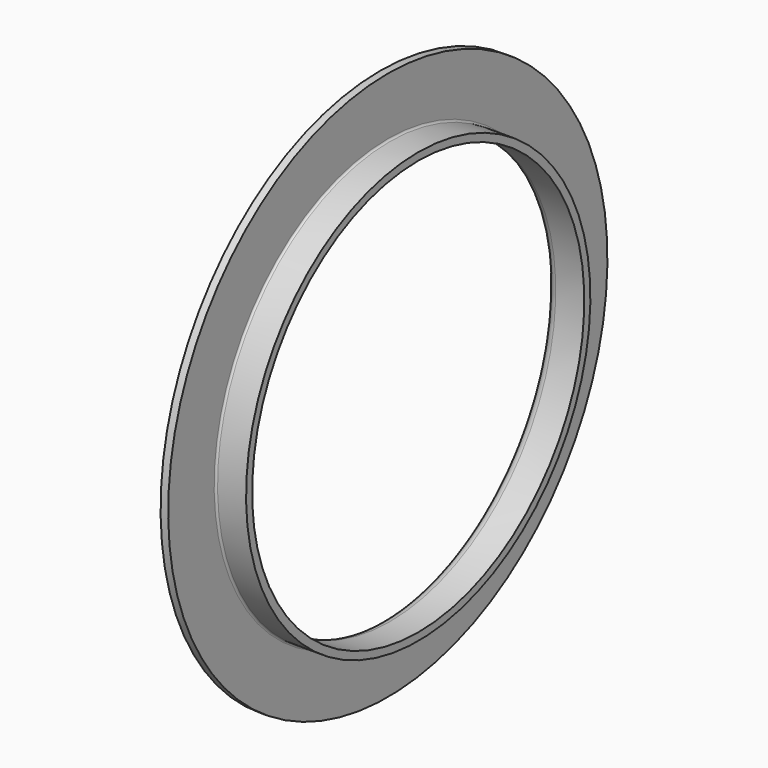
from build123d import *


with BuildPart() as f1:
    # F0 (on Front) → F1 (revolve)
    with BuildSketch(Plane.XZ):
        with BuildLine():
            Line((0, 36.1), (0, 28.55))
            ThreePointArc((0, 28.55), (0.366117, 27.666117), (1.25, 27.3))
            Line((1.25, 27.3), (5, 27.3))
            Line((5, 27.3), (5, 28.3))
            Line((5, 28.3), (1.25, 28.3))
            ThreePointArc((1.25, 28.3), (1.073223, 28.373223), (1, 28.55))
            Line((1, 28.55), (1, 36.1))
            Line((1, 36.1), (0, 36.1))
        make_face()
    revolve(axis=Axis((2.5, 0, 0), (1, 0, 0)))


solid = f1.part
